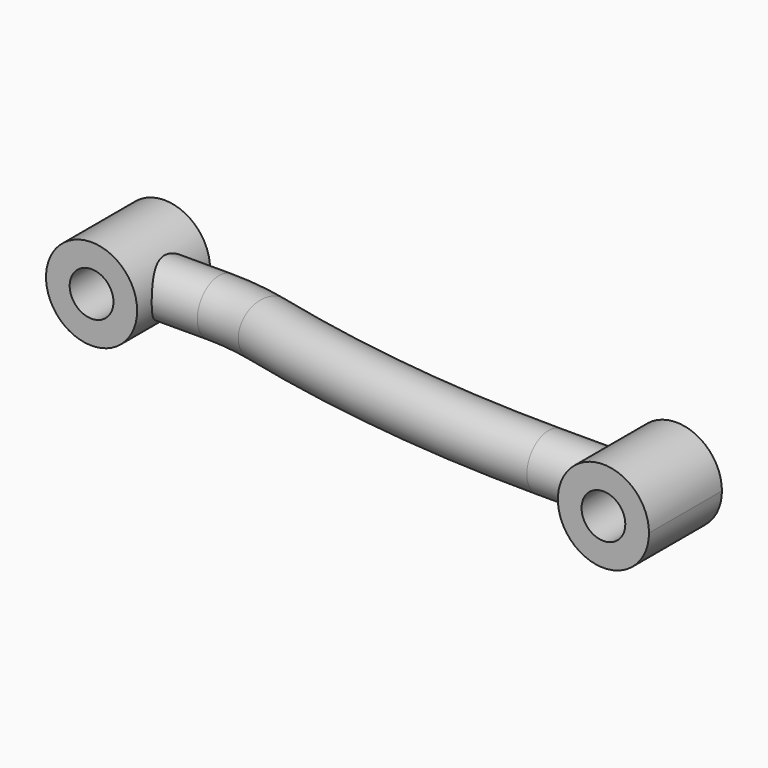
from build123d import *

# Parameters (mm, degrees)
F1_R      = 7.5
F3_R      = 12.5
F4_DEPTH  = 12.5
F5_R      = 6
F6_DEPTH  = 25
F9_DEPTH  = 12.5
F10_R     = 6
F11_DEPTH = 25


with BuildPart() as f2:
    # F2: sweep along a path in F0
    with BuildLine(Plane.XY) as f2_path:
        Line((150, -12), (125, -12))
        ThreePointArc((125, -12), (81.789999989, -9.4166667579), (39.1955835962, -1.7034700315))
        ThreePointArc((39.1955835962, -1.7034700315), (32.1487132371, -0.4273896908), (25, 0))
        Line((25, 0), (0, 0))
    # F1 (on Right) → F2 (sweep)
    with BuildSketch(Plane.YZ):
        Circle(F1_R)
    sweep(path=f2_path.line)

    # F3 (on Front) → F4 (join, symmetric)
    with BuildSketch(Plane.XZ):
        Circle(F3_R)
    extrude(amount=F4_DEPTH, both=True)

    # F5 (on face) → F6 (cut)
    with BuildSketch(Plane.XZ.offset(12.5)):
        Circle(F5_R)
    extrude(amount=-F6_DEPTH, mode=Mode.SUBTRACT)

    # F8 (on offset) → F9 (join, symmetric)
    with BuildSketch(Plane.XZ.offset(12)):
        with BuildLine():
            Line((150, 7.5), (150, -7.5))
            Line((150, -7.5), (140, -7.5))
            ThreePointArc((140, -7.5), (153.9528470752, -11.8585412256), (162.5, 0))
            ThreePointArc((162.5, 0), (153.9528470752, 11.8585412256), (140, 7.5))
            Line((140, 7.5), (150, 7.5))
        make_face()
        with BuildLine():
            Line((140, -7.5), (150, -7.5))
            Line((150, -7.5), (150, 7.5))
            Line((150, 7.5), (140, 7.5))
            ThreePointArc((140, 7.5), (137.5, 0), (140, -7.5))
        make_face()
    extrude(amount=F9_DEPTH, both=True)

    # F10 (on face) → F11 (cut)
    with BuildSketch(Plane.XZ.offset(24.5)):
        with Locations((150, 0)):
            Circle(F10_R)
    extrude(amount=-F11_DEPTH, mode=Mode.SUBTRACT)


solid = f2.part
